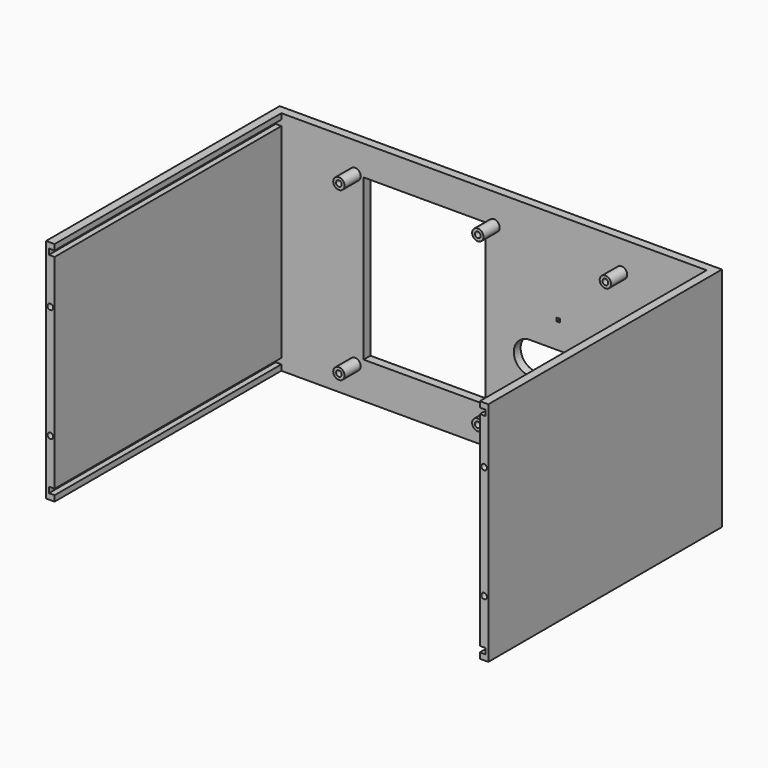
from build123d import *

# Parameters (mm, degrees)
F0_W      = 198.12
F0_H      = 101.6
F2_DEPTH  = 3.81
F1_R      = 2.54
F3_DEPTH  = 12.8778
F4_R      = 1.2742822285
F4_R_2    = 1.2649039603
F4_R_3    = 1.2682976719
F4_R_4    = 1.273443292
F4_R_5    = 1.26744028
F4_R_6    = 1.2643596857
F5_DEPTH  = 10.3378
F6_W      = 54.61
F6_H      = 71.882
F6_W_2    = 1.524
F6_H_2    = 1.524
F7_DEPTH  = 3.81
F8_W      = 3.81
F8_H      = 101.6
F9_DEPTH  = 127
F10_W     = 2.54
F10_H     = 2.54
F10_H_2   = 2.5507584214
F10_R     = 1.2654265937
F10_R_2   = 1.2754683581
F10_R_3   = 1.268876748
F10_R_4   = 1.2699045753
F11_DEPTH = 127


with BuildPart() as f2:
    # F0 (on Front) → F2 (new body)
    with BuildSketch(Plane.XZ):
        Rectangle(F0_W, F0_H)
    extrude(amount=F2_DEPTH)

    # F1 (on Front) → F3 (join)
    with BuildSketch(Plane.XZ):
        with Locations((-62.23, -37.465)):
            Circle(F1_R)
        with Locations((-62.23, 37.465)):
            Circle(F1_R)
        with Locations((0, 37.465)):
            Circle(F1_R)
        with Locations((0, -37.465)):
            Circle(F1_R)
        with Locations((57.15, -37.465)):
            Circle(F1_R)
        with Locations((57.15, 37.465)):
            Circle(F1_R)
    extrude(amount=F3_DEPTH)

    # F4 (on face) → F5 (cut)
    with BuildSketch(Plane.XZ.offset(3.81)):
        with Locations((-62.23, 37.465)):
            Circle(F4_R)
        with Locations((-62.23, -37.465)):
            Circle(F4_R_2)
        with Locations((57.15, -37.465)):
            Circle(F4_R_3)
        with Locations((57.15, 37.465)):
            Circle(F4_R_4)
        with Locations((0, -37.465)):
            Circle(F4_R_5)
        with Locations((0, 37.465)):
            Circle(F4_R_6)
    extrude(amount=F5_DEPTH, mode=Mode.SUBTRACT)

    # F6 (on face) → F7 (cut)
    with BuildSketch(Plane.XZ.offset(3.81)):
        with Locations((-31.115, 1.524)):
            Rectangle(F6_W, F6_H)
        with BuildLine():
            ThreePointArc((15.9514440232, -2.413179692), (8.8903213435, -9.5926068587), (16.086657352, -16.6364961248))
            Line((16.086657352, -16.6364961248), (41.317342648, -16.6364961248))
            ThreePointArc((41.317342648, -16.6364961248), (34.29, -9.525), (41.317342648, -2.4135038752))
            Line((41.317342648, -2.4135038752), (41.317342648, -2.413179692))
            Line((41.317342648, -2.413179692), (15.9514440232, -2.413179692))
        make_face()
        with BuildLine():
            ThreePointArc((15.9514440232, -2.413179692), (21.0130373124, -4.4782139877), (23.114, -9.525))
            ThreePointArc((23.114, -9.525), (21.0607857776, -14.5239229296), (16.086657352, -16.6364961248))
            Line((16.086657352, -16.6364961248), (15.9514440232, -16.6364961248))
            Line((15.9514440232, -16.6364961248), (15.9514440232, -2.413179692))
        make_face(mode=Mode.SUBTRACT)
        with BuildLine():
            ThreePointArc((15.9514440232, -2.413179692), (8.8903213435, -9.5926068587), (16.086657352, -16.6364961248))
            Line((16.086657352, -16.6364961248), (41.317342648, -16.6364961248))
            ThreePointArc((41.317342648, -16.6364961248), (34.29, -9.525), (41.317342648, -2.4135038752))
            Line((41.317342648, -2.4135038752), (41.317342648, -2.413179692))
            Line((41.317342648, -2.413179692), (15.9514440232, -2.413179692))
        make_face()
        with BuildLine():
            ThreePointArc((15.9514440232, -2.413179692), (21.0130373124, -4.4782139877), (23.114, -9.525))
            ThreePointArc((23.114, -9.525), (21.0607857776, -14.5239229296), (16.086657352, -16.6364961248))
            Line((16.086657352, -16.6364961248), (15.9514440232, -16.6364961248))
            Line((15.9514440232, -16.6364961248), (15.9514440232, -2.413179692))
        make_face(mode=Mode.SUBTRACT)
        with BuildLine():
            ThreePointArc((15.9514440232, -2.413179692), (8.8903213435, -9.5926068587), (16.086657352, -16.6364961248))
            Line((16.086657352, -16.6364961248), (41.317342648, -16.6364961248))
            ThreePointArc((41.317342648, -16.6364961248), (34.29, -9.525), (41.317342648, -2.4135038752))
            Line((41.317342648, -2.4135038752), (41.317342648, -2.413179692))
            Line((41.317342648, -2.413179692), (15.9514440232, -2.413179692))
        make_face()
        with BuildLine():
            ThreePointArc((15.9514440232, -2.413179692), (21.0130373124, -4.4782139877), (23.114, -9.525))
            ThreePointArc((23.114, -9.525), (21.0607857776, -14.5239229296), (16.086657352, -16.6364961248))
            Line((16.086657352, -16.6364961248), (15.9514440232, -16.6364961248))
            Line((15.9514440232, -16.6364961248), (15.9514440232, -2.413179692))
        make_face(mode=Mode.SUBTRACT)
        with BuildLine():
            Line((41.317342648, -2.4135038752), (41.317342648, -16.6364961248))
            ThreePointArc((41.317342648, -16.6364961248), (46.4009229296, -14.5837857776), (48.514, -9.525))
            ThreePointArc((48.514, -9.525), (46.4009229296, -4.4662142224), (41.317342648, -2.4135038752))
        make_face()
        with BuildLine():
            ThreePointArc((16.086657352, -16.6364961248), (21.0607857776, -14.5239229296), (23.114, -9.525))
            ThreePointArc((23.114, -9.525), (21.0130373124, -4.4782139877), (15.9514440232, -2.413179692))
            Line((15.9514440232, -2.413179692), (15.9514440232, -16.6364961248))
            Line((15.9514440232, -16.6364961248), (16.086657352, -16.6364961248))
        make_face()
        with BuildLine():
            ThreePointArc((16.086657352, -16.6364961248), (21.0607857776, -14.5239229296), (23.114, -9.525))
            ThreePointArc((23.114, -9.525), (21.0130373124, -4.4782139877), (15.9514440232, -2.413179692))
            Line((15.9514440232, -2.413179692), (15.9514440232, -16.6364961248))
            Line((15.9514440232, -16.6364961248), (16.086657352, -16.6364961248))
        make_face()
        with BuildLine():
            ThreePointArc((41.317342648, -2.4135038752), (34.29, -9.525), (41.317342648, -16.6364961248))
            Line((41.317342648, -16.6364961248), (41.317342648, -2.4135038752))
        make_face()
        with Locations((28.702, 9.525)):
            Rectangle(F6_W_2, F6_H_2)
    extrude(amount=-F7_DEPTH, mode=Mode.SUBTRACT)

    # F8 (on face) → F9 (join)
    with BuildSketch(Plane.XZ.offset(3.81)):
        with Locations((-97.155, 0)):
            Rectangle(F8_W, F8_H)
        with Locations((97.155, 0)):
            Rectangle(F8_W, F8_H)
    extrude(amount=F9_DEPTH)

    # F10 (on face) → F11 (cut)
    with BuildSketch(Plane.XZ.offset(3.81)):
        with Locations((-96.52, 46.99)):
            Rectangle(F10_W, F10_H)
        with Locations((-96.52, -46.9846207893)):
            Rectangle(F10_W, F10_H_2)
        with Locations((96.52, 46.99)):
            Rectangle(F10_W, F10_H)
        with Locations((96.52, -46.99)):
            Rectangle(F10_W, F10_H)
        with Locations((97.155, -25.4)):
            Circle(F10_R)
        with Locations((97.155, 25.4)):
            Circle(F10_R_2)
        with Locations((-97.155, 25.4)):
            Circle(F10_R_3)
        with Locations((-97.155, -25.4)):
            Circle(F10_R_4)
    extrude(amount=F11_DEPTH, mode=Mode.SUBTRACT)


solid = f2.part
